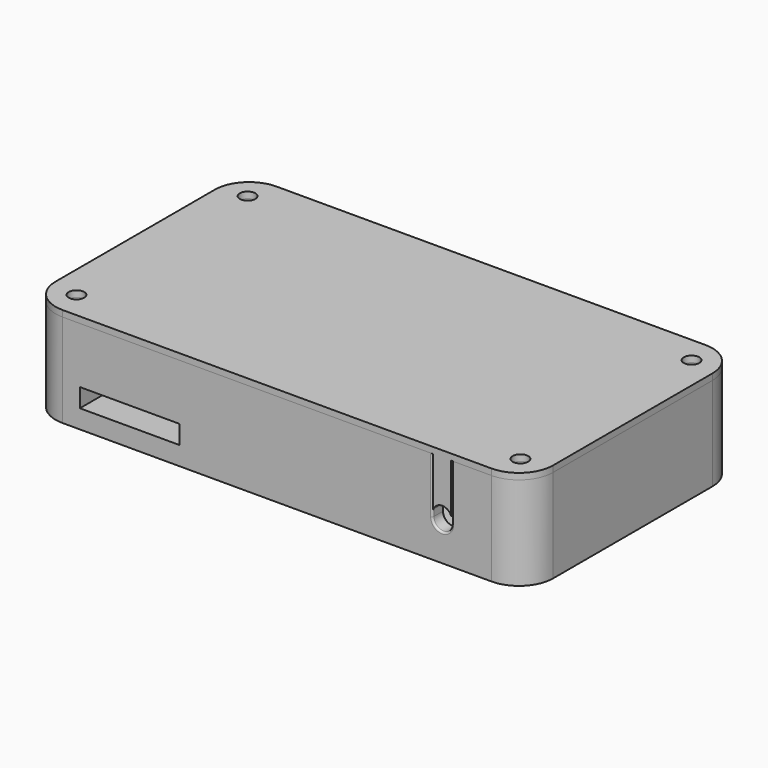
from build123d import *

# Parameters (mm, degrees)
PAD_DEPTH     = 3
SKETCH001_R   = 1.25
PAD001_DEPTH  = 15
SKETCH002_W   = 25
SKETCH002_H   = 40
SKETCH002_W_2 = 21
SKETCH002_H_2 = 36
PAD002_DEPTH  = 2
SKETCH003_W   = 16
SKETCH003_H   = 3
POCKET_DEPTH  = 2.3
FILLET_R      = 0.3
SKETCH004_R   = 1.25
PAD003_DEPTH  = 1
PAD004_DEPTH  = 2
PAD005_DEPTH  = 2.5


with BuildPart() as enclosure_bottom:
    # Sketch → Pad (new body)
    with BuildSketch(Plane.XY):
        with BuildLine():
            Line((-40, 16), (-40, -16))
            ThreePointArc((-40, -16), (-38.389087, -19.889087), (-34.5, -21.5))
            Line((-34.5, -21.5), (34.5, -21.5))
            ThreePointArc((34.5, -21.5), (38.389087, -19.889087), (40, -16))
            Line((40, -16), (40, 16))
            ThreePointArc((40, 16), (38.389087, 19.889087), (34.5, 21.5))
            Line((34.5, 21.5), (-34.5, 21.5))
            ThreePointArc((-34.5, 21.5), (-38.389087, 19.889087), (-40, 16))
        make_face()
    extrude(amount=PAD_DEPTH)

    # Sketch001 → Pad001 (join)
    with BuildSketch(Plane.XY):
        with BuildLine():
            Line((-40, 16), (-40, -16))
            ThreePointArc((-40, -16), (-38.389087, -19.889087), (-34.5, -21.5))
            Line((-34.5, -21.5), (34.5, -21.5))
            ThreePointArc((34.5, -21.5), (38.389087, -19.889087), (40, -16))
            Line((40, -16), (40, 16))
            ThreePointArc((40, 16), (38.389087, 19.889087), (34.5, 21.5))
            Line((34.5, 21.5), (-34.5, 21.5))
            ThreePointArc((-34.5, 21.5), (-38.389087, 19.889087), (-40, 16))
        make_face()
        with Locations((-35.693137, -17.193137)):
            Circle(SKETCH001_R, mode=Mode.SUBTRACT)
        with Locations((35.693137, -17.193137)):
            Circle(SKETCH001_R, mode=Mode.SUBTRACT)
        with Locations((-35.693137, 17.193137)):
            Circle(SKETCH001_R, mode=Mode.SUBTRACT)
        with Locations((35.693137, 17.193137)):
            Circle(SKETCH001_R, mode=Mode.SUBTRACT)
        with BuildLine():
            ThreePointArc((-31.7, -19.2), (-33.457359, -14.957359), (-37.7, -13.2))
            Line((-37.7, -13.2), (-37.7, 13.2))
            ThreePointArc((-37.7, 13.2), (-33.457359, 14.957359), (-31.7, 19.2))
            Line((-31.7, 19.2), (31.7, 19.2))
            ThreePointArc((31.7, 19.2), (33.457359, 14.957359), (37.7, 13.2))
            Line((37.7, 13.2), (37.7, -13.2))
            ThreePointArc((37.7, -13.2), (33.457359, -14.957359), (31.7, -19.2))
            Line((31.7, -19.2), (-31.7, -19.2))
        make_face(mode=Mode.SUBTRACT)
    extrude(amount=PAD001_DEPTH)

    # Sketch002 (on Face14 of Pad001) → Pad002 (join)
    with BuildSketch(Plane.XY.offset(3)):
        Polygon((-31.7, -21.5), (-33.7, -21.5), (-33.7, 1.5), (-13.7, 1.5), (-13.7, -21.5), (-15.7, -21.5), (-15.7, -0.5), (-31.7, -0.5), align=None)
        with Locations((4.8, 0)):
            Rectangle(SKETCH002_W, SKETCH002_H)
        with Locations((4.8, 0)):
            Rectangle(SKETCH002_W_2, SKETCH002_H_2, mode=Mode.SUBTRACT)
    extrude(amount=PAD002_DEPTH)

    # Sketch003 (on Face16 of Pad002) → Pocket (cut)
    with BuildSketch(Plane(origin=(0, -19.2, 0), x_dir=(-1, 0, 0), z_dir=(0, 1, 0))):
        with Locations((23.7, 4.5)):
            Rectangle(SKETCH003_W, SKETCH003_H)
        with BuildLine():
            Line((-28.1, 6), (-28.1, 15))
            Line((-28.1, 15), (-25, 15))
            Line((-25, 15), (-25, 6))
            ThreePointArc((-28.1, 6), (-26.55, 4.45), (-25, 6))
        make_face()
    extrude(amount=-POCKET_DEPTH, mode=Mode.SUBTRACT)

    # Fillet
    fillet_edges = [enclosure_bottom.edges().sort_by_distance(p)[0] for p in [
        (25, -19.2, 10.5),
        (25, -21.5, 10.5),
    ]]
    fillet(fillet_edges, radius=FILLET_R)


with BuildPart() as enclosure_lid:
    # Sketch004 → Pad003 (new body)
    with BuildSketch(Plane.XY):
        with BuildLine():
            Line((-40, 16), (-40, -16))
            ThreePointArc((-40, -16), (-38.389087, -19.889087), (-34.5, -21.5))
            Line((-34.5, -21.5), (34.5, -21.5))
            ThreePointArc((34.5, -21.5), (38.389087, -19.889087), (40, -16))
            Line((40, -16), (40, 16))
            ThreePointArc((40, 16), (38.389087, 19.889087), (34.5, 21.5))
            Line((34.5, 21.5), (-34.5, 21.5))
            ThreePointArc((-34.5, 21.5), (-38.389087, 19.889087), (-40, 16))
        make_face()
        with Locations((-35.693137, -17.193137)):
            Circle(SKETCH004_R, mode=Mode.SUBTRACT)
        with Locations((-35.693137, 17.193137)):
            Circle(SKETCH004_R, mode=Mode.SUBTRACT)
        with Locations((35.693137, 17.193137)):
            Circle(SKETCH004_R, mode=Mode.SUBTRACT)
        with Locations((35.693137, -17.193137)):
            Circle(SKETCH004_R, mode=Mode.SUBTRACT)
    extrude(amount=-PAD003_DEPTH)

    # Sketch005 → Pad004 (join)
    with BuildSketch(Plane.XY):
        with BuildLine():
            Line((-37.5, 13.003227), (-37.5, -13.003227))
            ThreePointArc((-31.503227, -19), (-33.315938, -14.815938), (-37.5, -13.003227))
            Line((-31.503227, -19), (31.503227, -19))
            ThreePointArc((37.5, -13.003227), (33.315938, -14.815938), (31.503227, -19))
            Line((37.5, -13.003227), (37.5, 13.003227))
            ThreePointArc((31.503227, 19), (33.315938, 14.815938), (37.5, 13.003227))
            Line((31.503227, 19), (-31.503227, 19))
            ThreePointArc((-37.5, 13.003227), (-33.315938, 14.815938), (-31.503227, 19))
        make_face()
    extrude(amount=-PAD004_DEPTH)

    # Sketch006 (on Face18 of Pad004) → Pad005 (join)
    with BuildSketch(Plane.XZ.offset(19)):
        with BuildLine():
            Line((25.1, -1), (28, -1))
            Line((28, -1), (28, -8.852277))
            ThreePointArc((28, -8.852277), (26.55, -7.85), (25.1, -8.852277))
            Line((25.1, -1), (25.1, -8.852277))
        make_face()
    extrude(amount=PAD005_DEPTH)


with BuildPart() as enclosure_lid_1:
    # Body001 placement: moved
    add(enclosure_lid.part.moved(Location((0, 0, 16))))


solid = Compound([enclosure_bottom.part, enclosure_lid_1.part])
